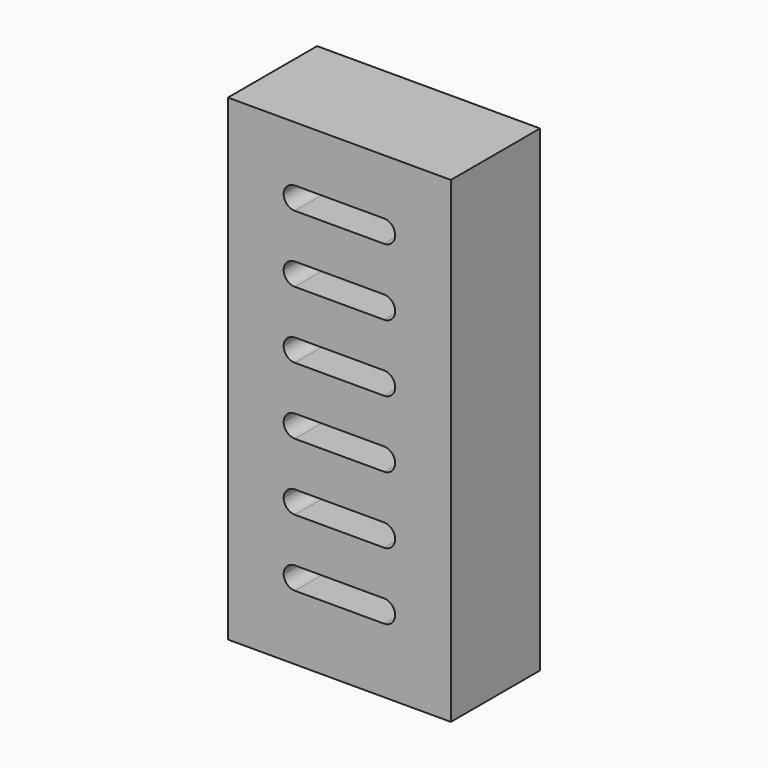
from build123d import *

# Parameters (mm, degrees)
F1_DEPTH = 50


with BuildPart() as f1:
    # F0 (on Front) → F1 (new body)
    with BuildSketch(Plane.XZ):
        with BuildLine():
            Line((-25, 124.041277), (0, 124.041277))
            Line((0, 124.041277), (0, 154.041277))
            Line((0, 154.041277), (-25, 154.041277))
            ThreePointArc((-25, 154.041277), (-26.464466, 150.505743), (-30, 149.041277))
            Line((-30, 149.041277), (-70, 149.041277))
            ThreePointArc((-70, 149.041277), (-73.535534, 150.505743), (-75, 154.041277))
            Line((-75, 154.041277), (-100, 154.041277))
            Line((-100, 154.041277), (-100, 124.041277))
            Line((-100, 124.041277), (-75, 124.041277))
            ThreePointArc((-75, 124.041277), (-73.535534, 127.57681), (-70, 129.041277))
            Line((-70, 129.041277), (-30, 129.041277))
            ThreePointArc((-30, 129.041277), (-26.464466, 127.57681), (-25, 124.041277))
        make_face()
        with BuildLine():
            Line((-25, 154.041277), (0, 154.041277))
            Line((0, 154.041277), (0, 184.041277))
            Line((0, 184.041277), (-25, 184.041277))
            ThreePointArc((-25, 184.041277), (-26.464466, 180.505743), (-30, 179.041277))
            Line((-30, 179.041277), (-70, 179.041277))
            ThreePointArc((-70, 179.041277), (-73.535534, 180.505743), (-75, 184.041277))
            Line((-75, 184.041277), (-100, 184.041277))
            Line((-100, 184.041277), (-100, 154.041277))
            Line((-100, 154.041277), (-75, 154.041277))
            ThreePointArc((-75, 154.041277), (-73.535534, 157.57681), (-70, 159.041277))
            Line((-70, 159.041277), (-30, 159.041277))
            ThreePointArc((-30, 159.041277), (-26.464466, 157.57681), (-25, 154.041277))
        make_face()
        with BuildLine():
            Line((-25, 184.041277), (0, 184.041277))
            Line((0, 184.041277), (0, 214))
            Line((0, 214), (-100, 214))
            Line((-100, 214), (-100, 184.041277))
            Line((-100, 184.041277), (-75, 184.041277))
            ThreePointArc((-75, 184.041277), (-73.535534, 187.57681), (-70, 189.041277))
            Line((-70, 189.041277), (-30, 189.041277))
            ThreePointArc((-30, 189.041277), (-26.464466, 187.57681), (-25, 184.041277))
        make_face()
        with BuildLine():
            Line((-25, 94.041277), (0, 94.041277))
            Line((0, 94.041277), (0, 124.041277))
            Line((0, 124.041277), (-25, 124.041277))
            ThreePointArc((-25, 124.041277), (-26.464466, 120.505743), (-30, 119.041277))
            Line((-30, 119.041277), (-70, 119.041277))
            ThreePointArc((-70, 119.041277), (-73.535534, 120.505743), (-75, 124.041277))
            Line((-75, 124.041277), (-100, 124.041277))
            Line((-100, 124.041277), (-100, 94.041277))
            Line((-100, 94.041277), (-75, 94.041277))
            ThreePointArc((-75, 94.041277), (-73.535534, 97.57681), (-70, 99.041277))
            Line((-70, 99.041277), (-30, 99.041277))
            ThreePointArc((-30, 99.041277), (-26.464466, 97.57681), (-25, 94.041277))
        make_face()
        with BuildLine():
            Line((-25, 64.041277), (0, 64.041277))
            Line((0, 64.041277), (0, 94.041277))
            Line((0, 94.041277), (-25, 94.041277))
            ThreePointArc((-25, 94.041277), (-26.464466, 90.505743), (-30, 89.041277))
            Line((-30, 89.041277), (-70, 89.041277))
            ThreePointArc((-70, 89.041277), (-73.535534, 90.505743), (-75, 94.041277))
            Line((-75, 94.041277), (-100, 94.041277))
            Line((-100, 94.041277), (-100, 64.041277))
            Line((-100, 64.041277), (-75, 64.041277))
            ThreePointArc((-75, 64.041277), (-73.535534, 67.57681), (-70, 69.041277))
            Line((-70, 69.041277), (-30, 69.041277))
            ThreePointArc((-30, 69.041277), (-26.464466, 67.57681), (-25, 64.041277))
        make_face()
        with BuildLine():
            Line((-25, 34.041277), (0, 34.041277))
            Line((0, 34.041277), (0, 64.041277))
            Line((0, 64.041277), (-25, 64.041277))
            ThreePointArc((-25, 64.041277), (-26.464466, 60.505743), (-30, 59.041277))
            Line((-30, 59.041277), (-70, 59.041277))
            ThreePointArc((-70, 59.041277), (-73.535534, 60.505743), (-75, 64.041277))
            Line((-75, 64.041277), (-100, 64.041277))
            Line((-100, 64.041277), (-100, 34.041277))
            Line((-100, 34.041277), (-75, 34.041277))
            ThreePointArc((-75, 34.041277), (-73.535534, 37.57681), (-70, 39.041277))
            Line((-70, 39.041277), (-30, 39.041277))
            ThreePointArc((-30, 39.041277), (-26.464466, 37.57681), (-25, 34.041277))
        make_face()
        with BuildLine():
            Line((-100, 0), (0, 0))
            Line((0, 0), (0, 34.041277))
            Line((0, 34.041277), (-25, 34.041277))
            ThreePointArc((-25, 34.041277), (-26.464466, 30.505743), (-30, 29.041277))
            Line((-30, 29.041277), (-70, 29.041277))
            ThreePointArc((-70, 29.041277), (-73.535534, 30.505743), (-75, 34.041277))
            Line((-75, 34.041277), (-100, 34.041277))
            Line((-100, 34.041277), (-100, 0))
        make_face()
    extrude(amount=F1_DEPTH)


solid = f1.part
